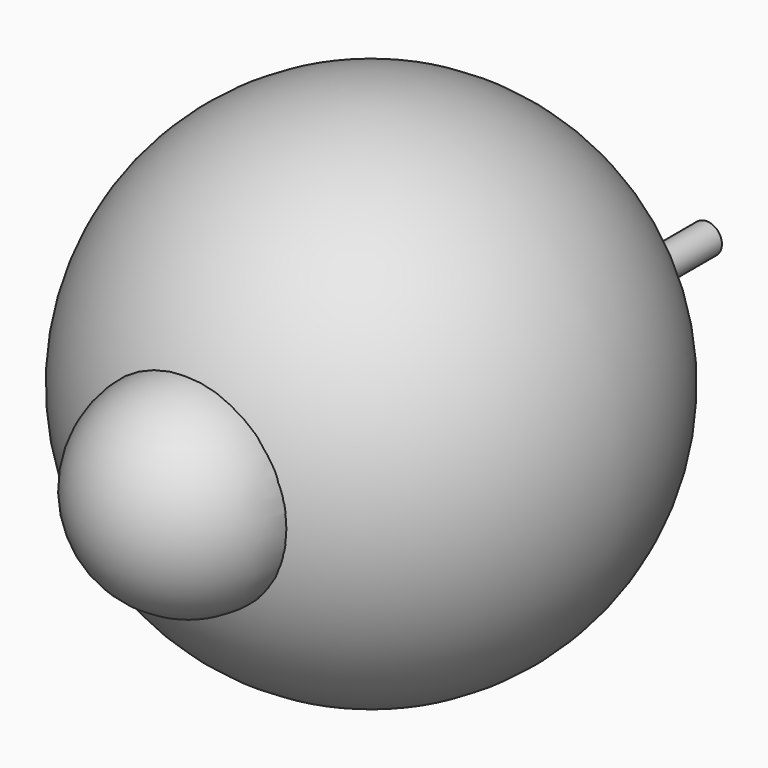
from build123d import *

# Parameters (mm, degrees)
F6_W = 7.62
F6_H = 76.2


with BuildPart() as f1:
    # F0 (on Front) → F1 (revolve)
    with BuildSketch(Plane.XZ):
        with BuildLine():
            Line((0, 127), (0, -127))
            ThreePointArc((0, -127), (127, 0), (0, 127))
        make_face()
    revolve(axis=Axis((0, 0, 0), (0, 0, -1)))


with BuildPart() as f4:
    # F3 (on offset) → F4 (revolve)
    with BuildSketch(Plane.XZ.offset(114.3)):
        with BuildLine():
            Line((0, 50.8), (0, -50.8))
            ThreePointArc((0, -50.8), (50.8, 0), (0, 50.8))
        make_face()
    revolve(axis=Axis((0, -114.3, 0), (0, 0, -1)))


with BuildPart() as f7:
    # F6 (on offset) → F7 (revolve)
    with BuildSketch(Plane.XY):
        with Locations((-29.21, 139.7)):
            Rectangle(F6_W, F6_H)
    revolve(axis=Axis((-25.4, 139.7, 0), (0, 1, 0)))


with BuildPart() as f8:
    # F6 (on offset) → F8 (revolve)
    with BuildSketch(Plane.XY):
        with Locations((29.21, 139.7)):
            Rectangle(F6_W, F6_H)
    revolve(axis=Axis((25.4, 139.7, 0), (0, 1, 0)))


solid = Compound([f1.part, f4.part, f7.part, f8.part])
